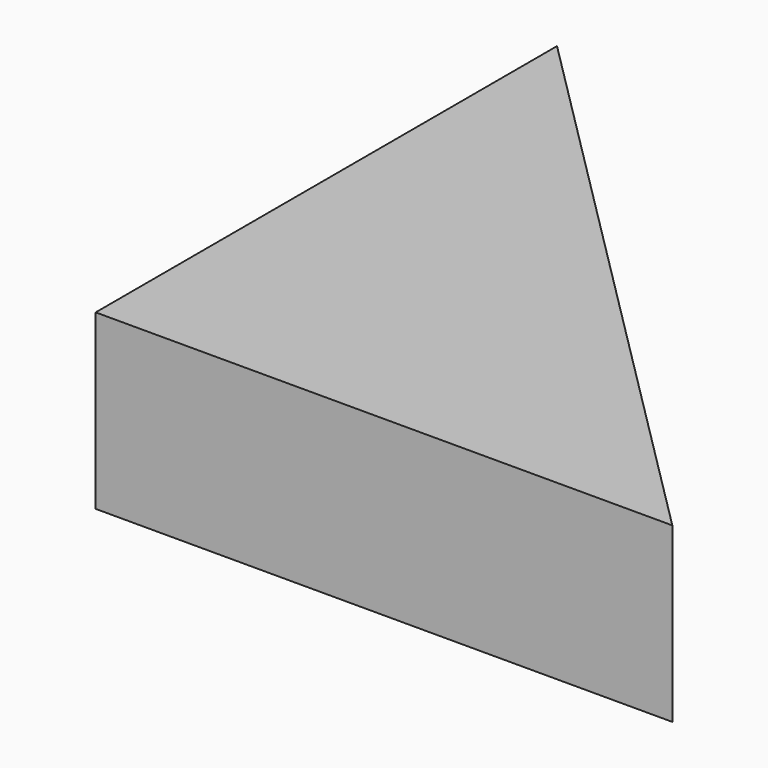
from build123d import *

# Parameters (mm, degrees)
PAD_DEPTH = 3


with BuildPart() as part:
    # Sketch → Pad (new body)
    with BuildSketch(Plane.XY):
        Polygon((0, 0), (10, 0), (0, 10), align=None)
    extrude(amount=PAD_DEPTH)


solid = part.part
